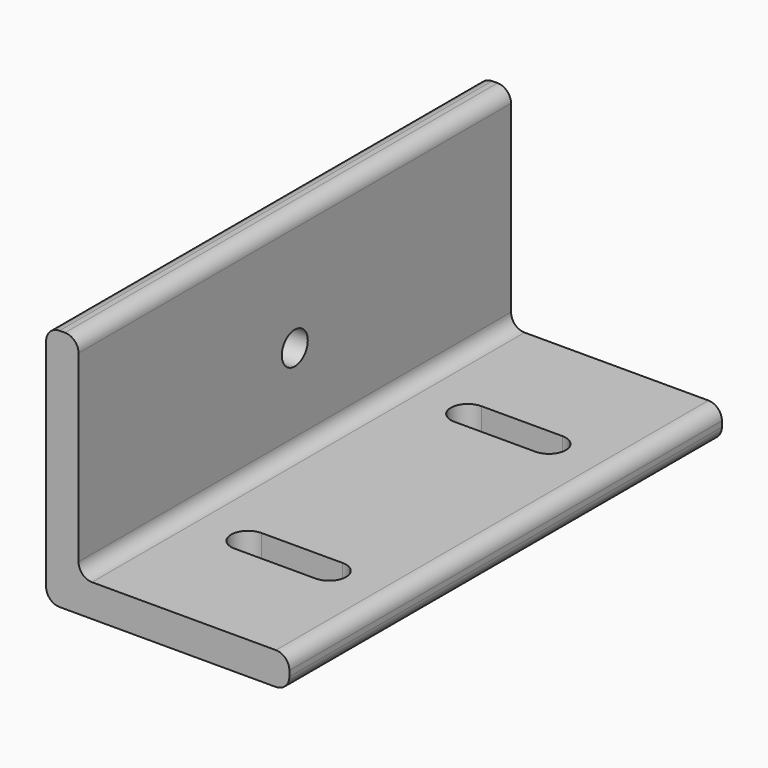
from build123d import *

# Parameters (mm, degrees)
F1_DEPTH = 200
F2_R     = 5
F3_R     = 6
F4_DEPTH = 25
F6_DEPTH = 25


with BuildPart() as f1:
    # F0 (on Front) → F1 (new body)
    with BuildSketch(Plane.XZ):
        Polygon((0, 90), (0, 0), (90, 0), (90, 12), (12, 12), (12, 90), align=None)
    extrude(amount=F1_DEPTH)

    # F2
    f2_edges = [f1.edges().sort_by_distance(p)[0] for p in [
        (12, -100, 90),
        (12, -100, 12),
        (90, -100, 12),
        (90, -100, 0),
        (0, -100, 90),
        (0, -100, 0),
    ]]
    fillet(f2_edges, radius=F2_R)

    # F3 (on face) → F4 (cut)
    with BuildSketch(Plane.YZ.offset(12)):
        with Locations((-100, 46)):
            Circle(F3_R)
    extrude(amount=-F4_DEPTH, mode=Mode.SUBTRACT)

    # F5 (on face) → F6 (cut)
    with BuildSketch(Plane.XY.offset(12)):
        with BuildLine():
            Line((66, -145.373556), (36, -145.373556))
            ThreePointArc((36, -145.373556), (29.75, -151.623556), (36, -157.873556))
            Line((36, -157.873556), (66, -157.873556))
            ThreePointArc((66, -157.873556), (72.25, -151.623556), (66, -145.373556))
        make_face()
        with BuildLine():
            Line((66, -43.75), (36, -43.75))
            ThreePointArc((36, -43.75), (29.75, -50), (36, -56.25))
            Line((36, -56.25), (66, -56.25))
            ThreePointArc((66, -56.25), (72.25, -50), (66, -43.75))
        make_face()
    extrude(amount=-F6_DEPTH, mode=Mode.SUBTRACT)


solid = f1.part
